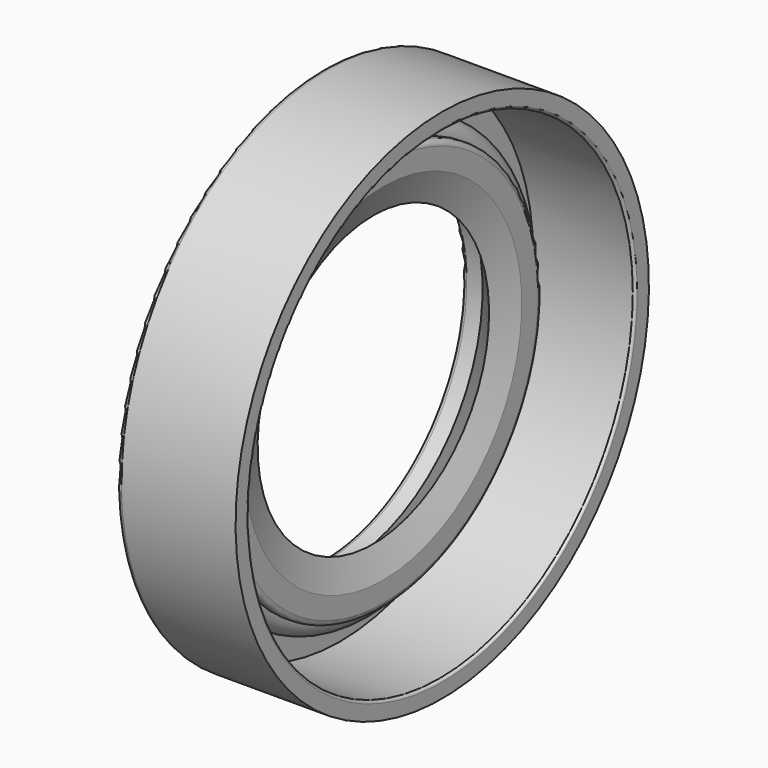
from build123d import *


with BuildPart() as f1:
    # F0 (on Front) → F1 (revolve)
    with BuildSketch(Plane.XZ):
        with BuildLine():
            Line((3.469299, 14.324968), (3.469299, 15.179388))
            Line((3.469299, 15.179388), (-3.230701, 15.179388))
            ThreePointArc((-3.230701, 15.179388), (-3.442833, 15.09152), (-3.530701, 14.879388))
            Line((-3.530701, 14.879388), (-3.530701, 10.479388))
            ThreePointArc((-3.530701, 10.479388), (-3.442833, 10.267256), (-3.230701, 10.179388))
            Line((-3.230701, 10.179388), (-2.302631, 10.179388))
            Line((-2.302631, 10.179388), (-0.578124, 8.5))
            Line((-0.578124, 8.5), (0, 10.179388))
            Line((0, 10.179388), (0, 11.379388))
            ThreePointArc((0, 11.379388), (-0.087868, 11.59152), (-0.3, 11.679388))
            Line((-0.3, 11.679388), (-0.578124, 11.679388))
            ThreePointArc((-0.578124, 11.679388), (-1.440378, 12.541641), (-2.302631, 11.679388))
            Line((-2.302631, 11.679388), (-2.530701, 11.679388))
            Line((-2.530701, 11.679388), (-2.530701, 14.179388))
            Line((-2.530701, 14.179388), (3.323719, 14.179388))
            ThreePointArc((3.323719, 14.179388), (3.426659, 14.222027), (3.469299, 14.324968))
        make_face()
    revolve(axis=Axis((7.997807, 0, 0), (1, 0, 0)))


solid = f1.part
